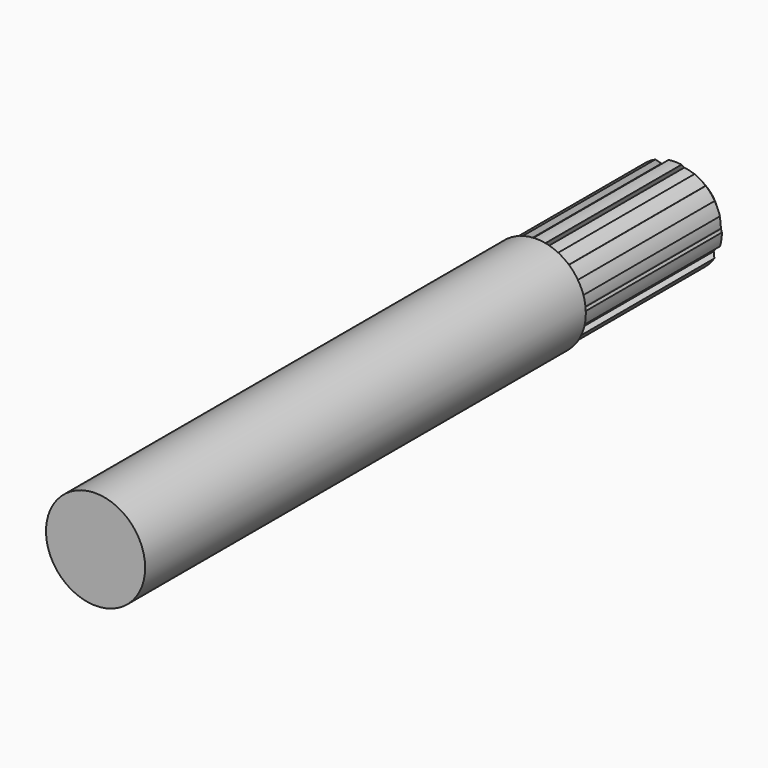
from build123d import *

# Parameters (mm, degrees)
F0_R     = 9
F1_DEPTH = 100
F3_DEPTH = 34
F4_SIZE  = 2.5
F5_DEPTH = 34


with BuildPart() as f1:
    # F0 (on Front) → F1 (new body)
    with BuildSketch(Plane.XZ):
        Circle(F0_R)
    extrude(amount=F1_DEPTH)

    # F2 (on Front) → F3 (join)
    with BuildSketch(Plane.XZ):
        with BuildLine():
            ThreePointArc((8.499903, -0.040575), (8.499976, -0.020288), (8.5, 0))
            ThreePointArc((8.5, 0), (8.410571, 1.229754), (8.144166, 2.433631))
            Line((8.144166, 2.433631), (7.141912, 2.28978))
            ThreePointArc((7.141912, 2.28978), (7.409937, 1.158806), (7.5, 0))
            ThreePointArc((7.5, 0), (7.49943, -0.092467), (7.49772, -0.184919))
            Line((7.49772, -0.184919), (8.499903, -0.040575))
        make_face()
        with BuildLine():
            Line((7.141912, 2.28978), (8.144166, 2.433631))
            ThreePointArc((8.144166, 2.433631), (7.731872, 3.531028), (7.17251, 4.56126))
            Line((7.17251, 4.56126), (6.407458, 3.89801))
            ThreePointArc((6.407458, 3.89801), (6.82224, 3.115613), (7.141912, 2.28978))
        make_face()
        with BuildLine():
            ThreePointArc((8.167029, -2.355768), (8.413482, -1.209676), (8.499903, -0.040575))
            Line((8.499903, -0.040575), (7.49772, -0.184919))
            ThreePointArc((7.49772, -0.184919), (7.423661, -1.067361), (7.246107, -1.934923))
            Line((7.246107, -1.934923), (8.167029, -2.355768))
        make_face()
        with BuildLine():
            Line((6.407458, 3.89801), (7.17251, 4.56126))
            ThreePointArc((7.17251, 4.56126), (6.423871, 5.566316), (5.535588, 6.450369))
            Line((5.535588, 6.450369), (4.77021, 5.787495))
            ThreePointArc((4.77021, 5.787495), (5.668122, 4.911456), (6.407458, 3.89801))
        make_face()
        with BuildLine():
            ThreePointArc((7.128637, -4.629529), (7.731872, -3.531028), (8.167029, -2.355768))
            Line((8.167029, -2.355768), (7.246107, -1.934923))
            ThreePointArc((7.246107, -1.934923), (6.82224, -3.115613), (6.207509, -4.209137))
            Line((6.207509, -4.209137), (7.128637, -4.629529))
        make_face()
        with BuildLine():
            Line((4.77021, 5.787495), (5.535588, 6.450369))
            ThreePointArc((5.535588, 6.450369), (4.595447, 7.150655), (3.567896, 7.714928))
            Line((3.567896, 7.714928), (3.282874, 6.743348))
            ThreePointArc((3.282874, 6.743348), (4.054806, 6.309401), (4.77021, 5.787495))
        make_face()
        with BuildLine():
            ThreePointArc((5.596918, -6.397227), (6.423871, -5.566316), (7.128637, -4.629529))
            Line((7.128637, -4.629529), (6.207509, -4.209137))
            ThreePointArc((6.207509, -4.209137), (5.668122, -4.911456), (5.049715, -5.545302))
            Line((5.049715, -5.545302), (5.596918, -6.397227))
        make_face()
        with BuildLine():
            Line((3.282874, 6.743348), (3.567896, 7.714928))
            ThreePointArc((3.567896, 7.714928), (2.394727, 8.15569), (1.1695, 8.419161))
            Line((1.1695, 8.419161), (0.884, 7.447721))
            ThreePointArc((0.884, 7.447721), (2.112994, 7.196197), (3.282874, 6.743348))
        make_face()
        with BuildLine():
            ThreePointArc((3.494079, -7.748639), (4.595447, -7.150655), (5.596918, -6.397227))
            Line((5.596918, -6.397227), (5.049715, -5.545302))
            ThreePointArc((5.049715, -5.545302), (4.054806, -6.309401), (2.946457, -6.896984))
            Line((2.946457, -6.896984), (3.494079, -7.748639))
        make_face()
        with BuildLine():
            Line((0.884, 7.447721), (1.1695, 8.419161))
            ThreePointArc((1.1695, 8.419161), (0, 8.5), (-1.1695, 8.419161))
            Line((-1.1695, 8.419161), (-0.884, 7.447721))
            ThreePointArc((-0.884, 7.447721), (0, 7.5), (0.884, 7.447721))
        make_face()
        with BuildLine():
            ThreePointArc((1.249825, -8.407612), (2.394727, -8.15569), (3.494079, -7.748639))
            Line((3.494079, -7.748639), (2.946457, -6.896984))
            ThreePointArc((2.946457, -6.896984), (2.112994, -7.196197), (1.250074, -7.395087))
            Line((1.250074, -7.395087), (1.249825, -8.407612))
        make_face()
        with BuildLine():
            Line((-0.884, 7.447721), (-1.1695, 8.419161))
            ThreePointArc((-1.1695, 8.419161), (-2.394727, 8.15569), (-3.567896, 7.714928))
            Line((-3.567896, 7.714928), (-3.282874, 6.743348))
            ThreePointArc((-3.282874, 6.743348), (-2.112994, 7.196197), (-0.884, 7.447721))
        make_face()
        with BuildLine():
            ThreePointArc((-1.249825, -8.407612), (0, -8.5), (1.249825, -8.407612))
            Line((1.249825, -8.407612), (1.250074, -7.395087))
            ThreePointArc((1.250074, -7.395087), (0, -7.5), (-1.250074, -7.395087))
            Line((-1.250074, -7.395087), (-1.249825, -8.407612))
        make_face()
        with BuildLine():
            Line((-3.282874, 6.743348), (-3.567896, 7.714928))
            ThreePointArc((-3.567896, 7.714928), (-4.595447, 7.150655), (-5.535588, 6.450369))
            Line((-5.535588, 6.450369), (-4.77021, 5.787495))
            ThreePointArc((-4.77021, 5.787495), (-4.054806, 6.309401), (-3.282874, 6.743348))
        make_face()
        with BuildLine():
            ThreePointArc((-3.494079, -7.748639), (-2.394727, -8.15569), (-1.249825, -8.407612))
            Line((-1.249825, -8.407612), (-1.250074, -7.395087))
            ThreePointArc((-1.250074, -7.395087), (-2.112994, -7.196197), (-2.946457, -6.896984))
            Line((-2.946457, -6.896984), (-3.494079, -7.748639))
        make_face()
        with BuildLine():
            Line((-4.77021, 5.787495), (-5.535588, 6.450369))
            ThreePointArc((-5.535588, 6.450369), (-6.423871, 5.566316), (-7.17251, 4.56126))
            Line((-7.17251, 4.56126), (-6.407458, 3.89801))
            ThreePointArc((-6.407458, 3.89801), (-5.668122, 4.911456), (-4.77021, 5.787495))
        make_face()
        with BuildLine():
            ThreePointArc((-5.596918, -6.397227), (-4.595447, -7.150655), (-3.494079, -7.748639))
            Line((-3.494079, -7.748639), (-2.946457, -6.896984))
            ThreePointArc((-2.946457, -6.896984), (-4.054806, -6.309401), (-5.049715, -5.545302))
            Line((-5.049715, -5.545302), (-5.596918, -6.397227))
        make_face()
        with BuildLine():
            Line((-6.407458, 3.89801), (-7.17251, 4.56126))
            ThreePointArc((-7.17251, 4.56126), (-7.731872, 3.531028), (-8.144166, 2.433631))
            Line((-8.144166, 2.433631), (-7.141912, 2.28978))
            ThreePointArc((-7.141912, 2.28978), (-6.82224, 3.115613), (-6.407458, 3.89801))
        make_face()
        with BuildLine():
            ThreePointArc((-7.128637, -4.629529), (-6.423871, -5.566316), (-5.596918, -6.397227))
            Line((-5.596918, -6.397227), (-5.049715, -5.545302))
            ThreePointArc((-5.049715, -5.545302), (-5.668122, -4.911456), (-6.207509, -4.209137))
            Line((-6.207509, -4.209137), (-7.128637, -4.629529))
        make_face()
        with BuildLine():
            Line((-7.141912, 2.28978), (-8.144166, 2.433631))
            ThreePointArc((-8.144166, 2.433631), (-8.413482, 1.209676), (-8.499903, -0.040575))
            Line((-8.499903, -0.040575), (-7.49772, -0.184919))
            ThreePointArc((-7.49772, -0.184919), (-7.423661, 1.067361), (-7.141912, 2.28978))
        make_face()
        with BuildLine():
            ThreePointArc((-8.167029, -2.355768), (-7.731872, -3.531028), (-7.128637, -4.629529))
            Line((-7.128637, -4.629529), (-6.207509, -4.209137))
            ThreePointArc((-6.207509, -4.209137), (-6.82224, -3.115613), (-7.246107, -1.934923))
            Line((-7.246107, -1.934923), (-8.167029, -2.355768))
        make_face()
        with BuildLine():
            Line((-7.49772, -0.184919), (-8.499903, -0.040575))
            ThreePointArc((-8.499903, -0.040575), (-8.413482, -1.209676), (-8.167029, -2.355768))
            Line((-8.167029, -2.355768), (-7.246107, -1.934923))
            ThreePointArc((-7.246107, -1.934923), (-7.423661, -1.067361), (-7.49772, -0.184919))
        make_face()
        with BuildLine():
            ThreePointArc((7.5, 0), (7.409937, 1.158806), (7.141912, 2.28978))
            ThreePointArc((7.141912, 2.28978), (6.82224, 3.115613), (6.407458, 3.89801))
            ThreePointArc((6.407458, 3.89801), (5.668122, 4.911456), (4.77021, 5.787495))
            ThreePointArc((4.77021, 5.787495), (4.054806, 6.309401), (3.282874, 6.743348))
            ThreePointArc((3.282874, 6.743348), (2.112994, 7.196197), (0.884, 7.447721))
            ThreePointArc((0.884, 7.447721), (0, 7.5), (-0.884, 7.447721))
            ThreePointArc((-0.884, 7.447721), (-2.112994, 7.196197), (-3.282874, 6.743348))
            ThreePointArc((-3.282874, 6.743348), (-4.054806, 6.309401), (-4.77021, 5.787495))
            ThreePointArc((-4.77021, 5.787495), (-5.668122, 4.911456), (-6.407458, 3.89801))
            ThreePointArc((-6.407458, 3.89801), (-6.82224, 3.115613), (-7.141912, 2.28978))
            ThreePointArc((-7.141912, 2.28978), (-7.423661, 1.067361), (-7.49772, -0.184919))
            ThreePointArc((-7.49772, -0.184919), (-7.423661, -1.067361), (-7.246107, -1.934923))
            ThreePointArc((-7.246107, -1.934923), (-6.82224, -3.115613), (-6.207509, -4.209137))
            ThreePointArc((-6.207509, -4.209137), (-5.668122, -4.911456), (-5.049715, -5.545302))
            ThreePointArc((-5.049715, -5.545302), (-4.054806, -6.309401), (-2.946457, -6.896984))
            ThreePointArc((-2.946457, -6.896984), (-2.112994, -7.196197), (-1.250074, -7.395087))
            ThreePointArc((-1.250074, -7.395087), (0, -7.5), (1.250074, -7.395087))
            ThreePointArc((1.250074, -7.395087), (2.112994, -7.196197), (2.946457, -6.896984))
            ThreePointArc((2.946457, -6.896984), (4.054806, -6.309401), (5.049715, -5.545302))
            ThreePointArc((5.049715, -5.545302), (5.668122, -4.911456), (6.207509, -4.209137))
            ThreePointArc((6.207509, -4.209137), (6.82224, -3.115613), (7.246107, -1.934923))
            ThreePointArc((7.246107, -1.934923), (7.423661, -1.067361), (7.49772, -0.184919))
            ThreePointArc((7.49772, -0.184919), (7.49943, -0.092467), (7.5, 0))
        make_face()
    extrude(amount=-F3_DEPTH)

    # F4
    f4_edges = [f1.edges().sort_by_distance(p)[0] for p in [
        (8.499903, 34, 0.040575),
    ]]
    chamfer(f4_edges, length=F4_SIZE)

    # F2 (on Front) → F5 (cut)
    with BuildSketch(Plane.XZ):
        with BuildLine():
            ThreePointArc((-5.596918, -6.397227), (-4.595447, -7.150655), (-3.494079, -7.748639))
            Line((-3.494079, -7.748639), (-2.946457, -6.896984))
            ThreePointArc((-2.946457, -6.896984), (-4.054806, -6.309401), (-5.049715, -5.545302))
            Line((-5.049715, -5.545302), (-5.596918, -6.397227))
        make_face()
        with BuildLine():
            ThreePointArc((-8.167029, -2.355768), (-7.731872, -3.531028), (-7.128637, -4.629529))
            Line((-7.128637, -4.629529), (-6.207509, -4.209137))
            ThreePointArc((-6.207509, -4.209137), (-6.82224, -3.115613), (-7.246107, -1.934923))
            Line((-7.246107, -1.934923), (-8.167029, -2.355768))
        make_face()
        with BuildLine():
            Line((-7.141912, 2.28978), (-8.144166, 2.433631))
            ThreePointArc((-8.144166, 2.433631), (-8.413482, 1.209676), (-8.499903, -0.040575))
            Line((-8.499903, -0.040575), (-7.49772, -0.184919))
            ThreePointArc((-7.49772, -0.184919), (-7.423661, 1.067361), (-7.141912, 2.28978))
        make_face()
        with BuildLine():
            Line((-4.77021, 5.787495), (-5.535588, 6.450369))
            ThreePointArc((-5.535588, 6.450369), (-6.423871, 5.566316), (-7.17251, 4.56126))
            Line((-7.17251, 4.56126), (-6.407458, 3.89801))
            ThreePointArc((-6.407458, 3.89801), (-5.668122, 4.911456), (-4.77021, 5.787495))
        make_face()
        with BuildLine():
            Line((-0.884, 7.447721), (-1.1695, 8.419161))
            ThreePointArc((-1.1695, 8.419161), (-2.394727, 8.15569), (-3.567896, 7.714928))
            Line((-3.567896, 7.714928), (-3.282874, 6.743348))
            ThreePointArc((-3.282874, 6.743348), (-2.112994, 7.196197), (-0.884, 7.447721))
        make_face()
        with BuildLine():
            Line((3.282874, 6.743348), (3.567896, 7.714928))
            ThreePointArc((3.567896, 7.714928), (2.394727, 8.15569), (1.1695, 8.419161))
            Line((1.1695, 8.419161), (0.884, 7.447721))
            ThreePointArc((0.884, 7.447721), (2.112994, 7.196197), (3.282874, 6.743348))
        make_face()
        with BuildLine():
            Line((6.407458, 3.89801), (7.17251, 4.56126))
            ThreePointArc((7.17251, 4.56126), (6.423871, 5.566316), (5.535588, 6.450369))
            Line((5.535588, 6.450369), (4.77021, 5.787495))
            ThreePointArc((4.77021, 5.787495), (5.668122, 4.911456), (6.407458, 3.89801))
        make_face()
        with BuildLine():
            ThreePointArc((8.499903, -0.040575), (8.499976, -0.020288), (8.5, 0))
            ThreePointArc((8.5, 0), (8.410571, 1.229754), (8.144166, 2.433631))
            Line((8.144166, 2.433631), (7.141912, 2.28978))
            ThreePointArc((7.141912, 2.28978), (7.409937, 1.158806), (7.5, 0))
            ThreePointArc((7.5, 0), (7.49943, -0.092467), (7.49772, -0.184919))
            Line((7.49772, -0.184919), (8.499903, -0.040575))
        make_face()
        with BuildLine():
            ThreePointArc((7.128637, -4.629529), (7.731872, -3.531028), (8.167029, -2.355768))
            Line((8.167029, -2.355768), (7.246107, -1.934923))
            ThreePointArc((7.246107, -1.934923), (6.82224, -3.115613), (6.207509, -4.209137))
            Line((6.207509, -4.209137), (7.128637, -4.629529))
        make_face()
        with BuildLine():
            ThreePointArc((3.494079, -7.748639), (4.595447, -7.150655), (5.596918, -6.397227))
            Line((5.596918, -6.397227), (5.049715, -5.545302))
            ThreePointArc((5.049715, -5.545302), (4.054806, -6.309401), (2.946457, -6.896984))
            Line((2.946457, -6.896984), (3.494079, -7.748639))
        make_face()
        with BuildLine():
            ThreePointArc((-1.249825, -8.407612), (0, -8.5), (1.249825, -8.407612))
            Line((1.249825, -8.407612), (1.250074, -7.395087))
            ThreePointArc((1.250074, -7.395087), (0, -7.5), (-1.250074, -7.395087))
            Line((-1.250074, -7.395087), (-1.249825, -8.407612))
        make_face()
    extrude(amount=-F5_DEPTH, mode=Mode.SUBTRACT)


solid = f1.part
